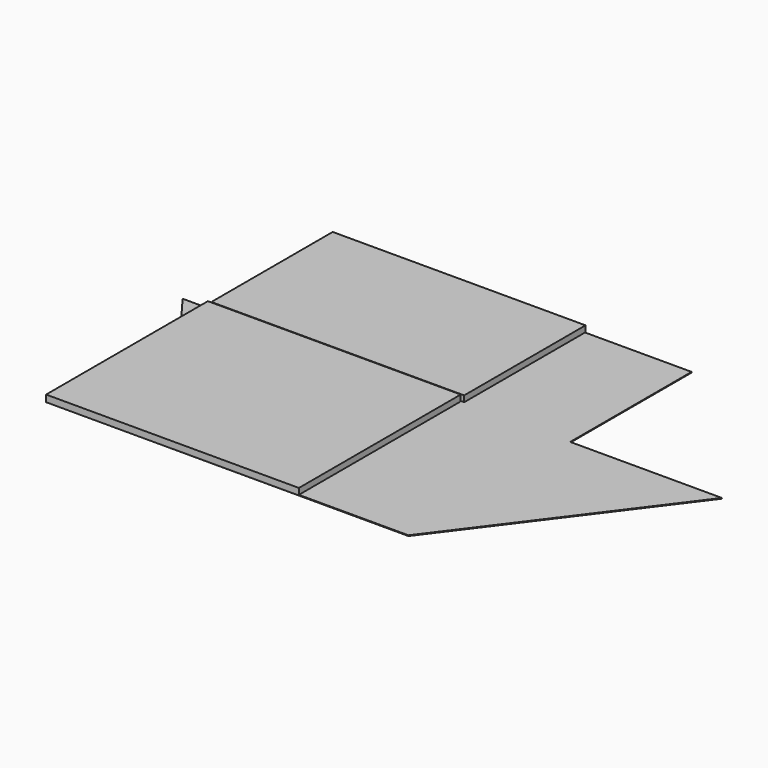
from build123d import *

# Parameters (mm, degrees)
F0_W     = 190.5
F0_H     = 114.3
F1_DEPTH = 5.08
F2_W     = 190.5
F2_H     = 152.4
F3_DEPTH = 5.08
F5_DEPTH = 0.508


with BuildPart() as f1:
    # F0 (on Top) → F1 (new body)
    with BuildSketch(Plane.XY):
        with Locations((2.252422, 57.610989)):
            Rectangle(F0_W, F0_H)
    extrude(amount=F1_DEPTH)


with BuildPart() as f3:
    # F2 (on Top) → F3 (new body)
    with BuildSketch(Plane.XY):
        with Locations((0, -76.2)):
            Rectangle(F2_W, F2_H)
    extrude(amount=F3_DEPTH)


with BuildPart() as f5:
    # F4 (on Top) → F5 (new body)
    with BuildSketch(Plane.XY):
        Polygon((0, 114.3), (0, 0), (0, -152.4), (177.8, -152.4), (177.8, 0), (177.8, 114.3), align=None)
        Polygon((0, -152.4), (0, 0), (-114.3, 0), align=None)
        Polygon((177.8, 0), (177.8, -152.4), (292.1, 0), align=None)
    extrude(amount=F5_DEPTH)


solid = Compound([f1.part, f3.part, f5.part])
